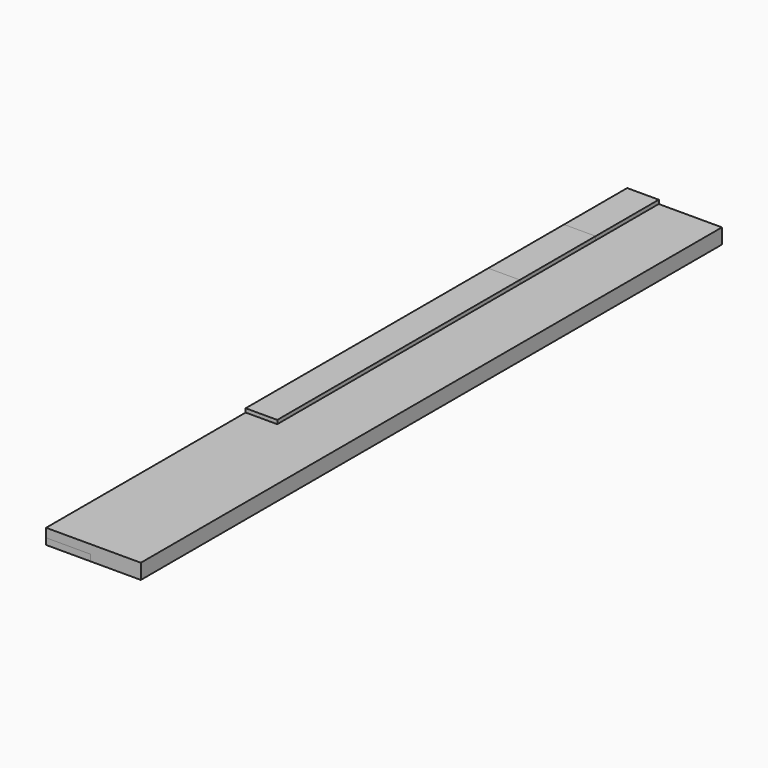
from build123d import *

# Parameters (mm, degrees)
F0_W     = 150
F0_H     = 24
F1_DEPTH = 1150
F3_W     = 50
F3_H     = 30
F4_DEPTH = 450
F5_DEPTH = 755
F6_DEPTH = 275
F7_DEPTH = 125
F2_W     = 70
F2_H     = 10
F8_DEPTH = 1150


with BuildPart() as f1:
    # F0 (on Front) → F1 (new body)
    with BuildSketch(Plane.XZ):
        with Locations((75, 12)):
            Rectangle(F0_W, F0_H)
    extrude(amount=F1_DEPTH)


with BuildPart() as f4:
    # F3 (on Front) → F4 (new body)
    with BuildSketch(Plane.XZ):
        with Locations((25, 15)):
            Rectangle(F3_W, F3_H)
    extrude(amount=F4_DEPTH)


with BuildPart() as f5:
    # F3 (on Front) → F5 (new body)
    with BuildSketch(Plane.XZ):
        with Locations((25, 15)):
            Rectangle(F3_W, F3_H)
    extrude(amount=F5_DEPTH)


with BuildPart() as f6:
    # F3 (on Front) → F6 (new body)
    with BuildSketch(Plane.XZ):
        with Locations((25, 15)):
            Rectangle(F3_W, F3_H)
    extrude(amount=F6_DEPTH)


with BuildPart() as f7:
    # F3 (on Front) → F7 (new body)
    with BuildSketch(Plane.XZ):
        with Locations((25, 15)):
            Rectangle(F3_W, F3_H)
    extrude(amount=F7_DEPTH)


with BuildPart() as f8:
    # F2 (on Front) → F8 (new body)
    with BuildSketch(Plane.XZ):
        with Locations((35, 5)):
            Rectangle(F2_W, F2_H)
    extrude(amount=F8_DEPTH)


solid = Compound([f1.part, f4.part, f5.part, f6.part, f7.part, f8.part])
